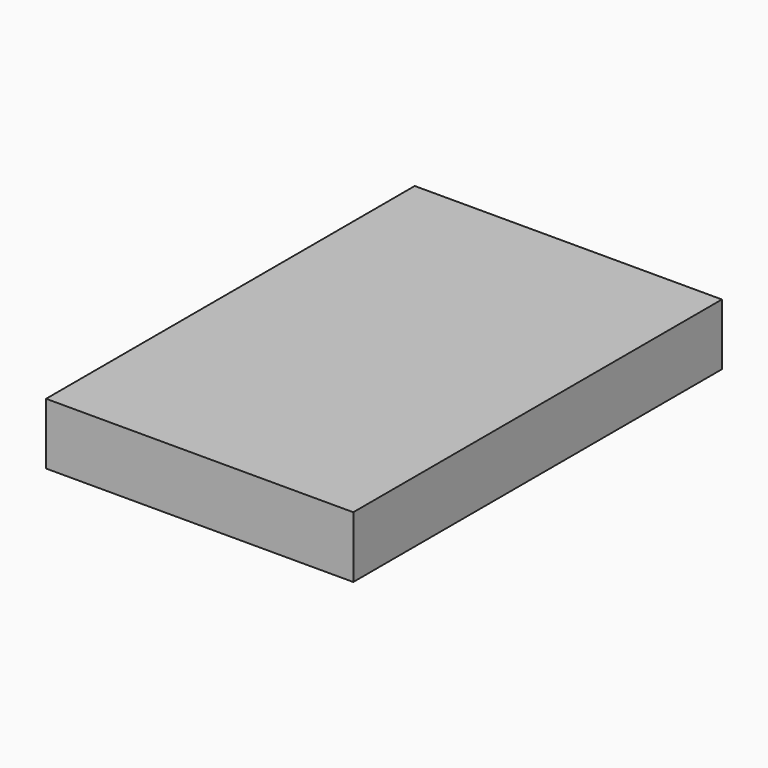
from build123d import *

# Parameters (mm, degrees)
SKETCH_W  = 1000
SKETCH_H  = 1500
PAD_DEPTH = 200


with BuildPart() as part:
    # Sketch → Pad (new body)
    with BuildSketch(Plane.XY):
        Rectangle(SKETCH_W, SKETCH_H)
    extrude(amount=PAD_DEPTH)


solid = part.part
